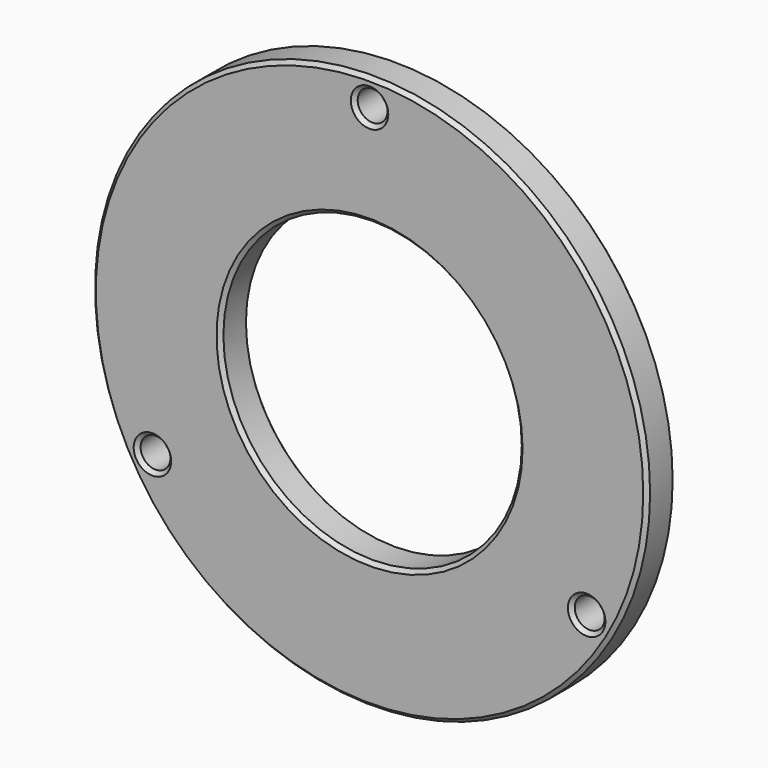
from build123d import *

# Parameters (mm, degrees)
F0_R     = 73.81875
F0_R_2   = 3.96875
F0_R_3   = 39.6875
F1_DEPTH = 9.525
F2_SIZE  = 1.016


with BuildPart() as f1:
    # F0 (on Front) → F1 (new body)
    with BuildSketch(Plane.XZ):
        Circle(F0_R)
        with Locations((-57.742244, -33.3375)):
            Circle(F0_R_2, mode=Mode.SUBTRACT)
        with Locations((57.742244, -33.3375)):
            Circle(F0_R_2, mode=Mode.SUBTRACT)
        Circle(F0_R_3, mode=Mode.SUBTRACT)
        with Locations((0, 66.675)):
            Circle(F0_R_2, mode=Mode.SUBTRACT)
    extrude(amount=F1_DEPTH)

    # F2
    f2_edges = [f1.edges().sort_by_distance(p)[0] for p in [
        (-73.81875, -9.525, 0),
        (-61.710994, -9.525, -33.3375),
        (53.773494, -9.525, -33.3375),
        (-39.6875, -9.525, 0),
        (-3.96875, -9.525, 66.675),
        (-73.81875, 0, 0),
        (-61.710994, 0, -33.3375),
        (53.773494, 0, -33.3375),
        (-39.6875, 0, 0),
        (-3.96875, 0, 66.675),
    ]]
    chamfer(f2_edges, length=F2_SIZE)


solid = f1.part
